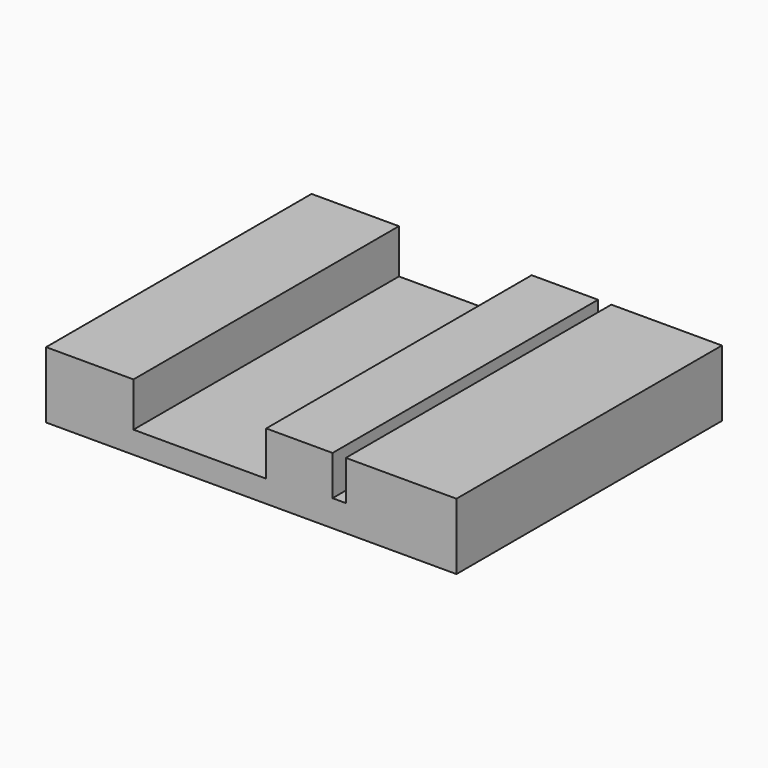
from build123d import *

# Parameters (mm, degrees)
F0_W     = 101.6
F0_H     = 76.2
F1_DEPTH = 15.24
F2_W     = 3.048
F2_H     = 76.2
F3_DEPTH = 9.144
F4_W     = 30.48
F4_H     = 76.2
F5_DEPTH = 10.16
F6_W     = 7.366
F6_H     = 76.2
F7_DEPTH = 17.78


with BuildPart() as f1:
    # F0 (on Top) → F1 (new body)
    with BuildSketch(Plane.XY):
        with Locations((50.8, 38.1)):
            Rectangle(F0_W, F0_H)
    extrude(amount=F1_DEPTH)

    # F2 (on face) → F3 (cut)
    with BuildSketch(Plane.XY.offset(15.24)):
        with Locations((74.676, 38.1)):
            Rectangle(F2_W, F2_H)
    extrude(amount=-F3_DEPTH, mode=Mode.SUBTRACT)

    # F4 (on face) → F5 (cut)
    with BuildSketch(Plane.XY.offset(15.24)):
        with Locations((42.672, 38.1)):
            Rectangle(F4_W, F4_H)
    extrude(amount=-F5_DEPTH, mode=Mode.SUBTRACT)

    # F6 (on face) → F7 (cut)
    with BuildSketch(Plane.XY.offset(15.24)):
        with Locations((3.683, 38.1)):
            Rectangle(F6_W, F6_H)
    extrude(amount=-F7_DEPTH, mode=Mode.SUBTRACT)


solid = f1.part
